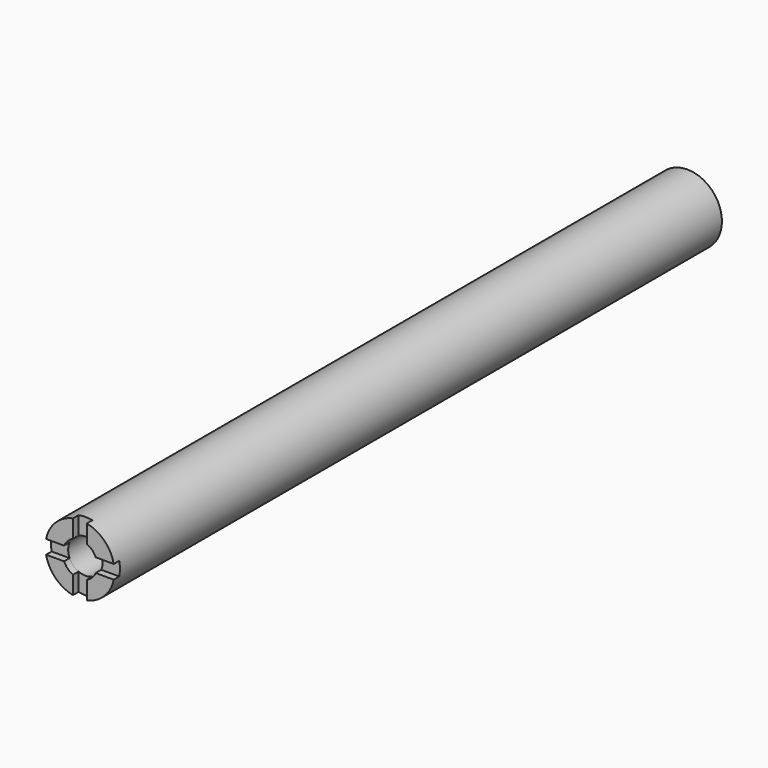
from build123d import *

# Parameters (mm, degrees)
F0_R     = 12.7
F1_DEPTH = 279.4
F2_R     = 6.35
F3_DEPTH = 25.4
F5_DEPTH = 2.54


with BuildPart() as f1:
    # F0 (on Front) → F1 (new body)
    with BuildSketch(Plane.XZ):
        Circle(F0_R)
    extrude(amount=F1_DEPTH)

    # F2 (on face) → F3 (cut)
    with BuildSketch(Plane.XZ.offset(279.4)):
        Circle(F2_R)
    extrude(amount=-F3_DEPTH, mode=Mode.SUBTRACT)

    # F4 (on face) → F5 (cut)
    with BuildSketch(Plane.XZ.offset(279.4)):
        with BuildLine():
            Line((-2.54, 14.246808), (-2.54, 12.443408))
            Line((-2.54, 12.443408), (-2.54, 5.819871))
            ThreePointArc((-2.54, 5.819871), (0, 6.35), (2.54, 5.819871))
            Line((2.54, 5.819871), (2.54, 12.443408))
            Line((2.54, 12.443408), (2.54, 14.246808))
            Line((2.54, 14.246808), (-2.54, 14.246808))
        make_face()
        with BuildLine():
            ThreePointArc((2.54, 5.819871), (0, 6.35), (-2.54, 5.819871))
            ThreePointArc((-2.54, 5.819871), (-4.490128, 4.490128), (-5.819871, 2.54))
            ThreePointArc((-5.819871, 2.54), (-6.35, 0), (-5.819871, -2.54))
            ThreePointArc((-5.819871, -2.54), (-4.490128, -4.490128), (-2.54, -5.819871))
            ThreePointArc((-2.54, -5.819871), (0, -6.35), (2.54, -5.819871))
            ThreePointArc((2.54, -5.819871), (4.490128, -4.490128), (5.819871, -2.54))
            ThreePointArc((5.819871, -2.54), (6.216055, -1.297366), (6.35, 0))
            ThreePointArc((6.35, 0), (6.216055, 1.297366), (5.819871, 2.54))
            ThreePointArc((5.819871, 2.54), (4.490128, 4.490128), (2.54, 5.819871))
        make_face()
        with BuildLine():
            ThreePointArc((-5.819871, -2.54), (-6.35, 0), (-5.819871, 2.54))
            Line((-5.819871, 2.54), (-12.443408, 2.54))
            Line((-12.443408, 2.54), (-14.246808, 2.54))
            Line((-14.246808, 2.54), (-14.246808, -2.54))
            Line((-14.246808, -2.54), (-12.443408, -2.54))
            Line((-12.443408, -2.54), (-5.819871, -2.54))
        make_face()
        with BuildLine():
            Line((12.443408, 2.54), (5.819871, 2.54))
            ThreePointArc((5.819871, 2.54), (6.216055, 1.297366), (6.35, 0))
            ThreePointArc((6.35, 0), (6.216055, -1.297366), (5.819871, -2.54))
            Line((5.819871, -2.54), (12.443408, -2.54))
            Line((12.443408, -2.54), (14.246808, -2.54))
            Line((14.246808, -2.54), (14.246808, 2.54))
            Line((14.246808, 2.54), (12.443408, 2.54))
        make_face()
        with BuildLine():
            ThreePointArc((2.54, -5.819871), (0, -6.35), (-2.54, -5.819871))
            Line((-2.54, -5.819871), (-2.54, -12.443408))
            Line((-2.54, -12.443408), (-2.54, -14.246808))
            Line((-2.54, -14.246808), (2.54, -14.246808))
            Line((2.54, -14.246808), (2.54, -12.443408))
            Line((2.54, -12.443408), (2.54, -5.819871))
        make_face()
    extrude(amount=-F5_DEPTH, mode=Mode.SUBTRACT)


solid = f1.part
